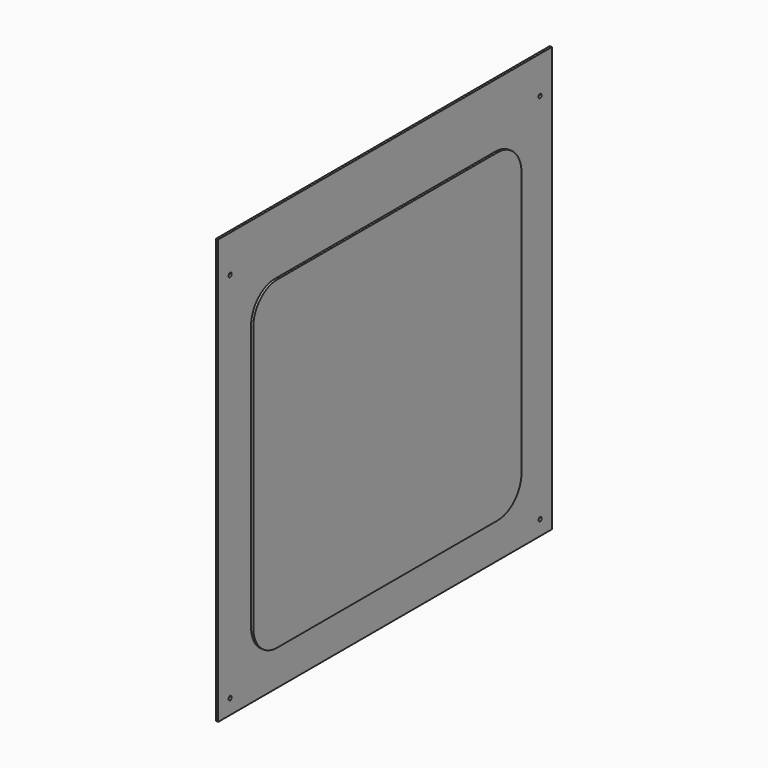
from build123d import *

# Parameters (mm, degrees)
F0_W     = 540
F0_H     = 40
F0_R     = 2.65
F0_W_2   = 430
F0_H_2   = 415
F1_DEPTH = 3
F2_R     = 30
F4_DEPTH = 3


with BuildPart() as f1:
    # F0 (on Right) → F1 (new body)
    with BuildSketch(Plane.YZ):
        with Locations((0, 280)):
            Rectangle(F0_W, F0_H)
        Polygon((270, 260), (-270, 260), (-270, 300), (-280, 300), (-280, -260), (-280, -270), (280, -270), (280, -260), (280, 300), (270, 300), align=None)
        with Locations((-260, -250)):
            Circle(F0_R, mode=Mode.SUBTRACT)
        with Locations((260, -250)):
            Circle(F0_R, mode=Mode.SUBTRACT)
        with Locations((0, -2.5)):
            Rectangle(F0_W_2, F0_H_2, mode=Mode.SUBTRACT)
        with Locations((-260, 250)):
            Circle(F0_R, mode=Mode.SUBTRACT)
        with Locations((260, 250)):
            Circle(F0_R, mode=Mode.SUBTRACT)
    extrude(amount=F1_DEPTH)

    # F2
    f2_edges = [f1.edges().sort_by_distance(p)[0] for p in [
        (1.5, -215, 205),
        (1.5, 215, 205),
        (1.5, 215, -210),
        (1.5, -215, -210),
    ]]
    fillet(f2_edges, radius=F2_R)


with BuildPart() as f4:
    # F3 (on face) → F4 (new body)
    with BuildSketch(Plane.YZ.offset(3)):
        with BuildLine():
            ThreePointArc((-225, -180), (-213.2842712475, -208.2842712475), (-185, -220))
            Line((-185, -220), (185, -220))
            ThreePointArc((185, -220), (213.2842712475, -208.2842712475), (225, -180))
            Line((225, -180), (225, 175))
            ThreePointArc((225, 175), (213.2842712475, 203.2842712475), (185, 215))
            Line((185, 215), (-185, 215))
            ThreePointArc((-185, 215), (-213.2842712475, 203.2842712475), (-225, 175))
            Line((-225, 175), (-225, -180))
        make_face()
    extrude(amount=F4_DEPTH)


solid = Compound([f1.part, f4.part])
